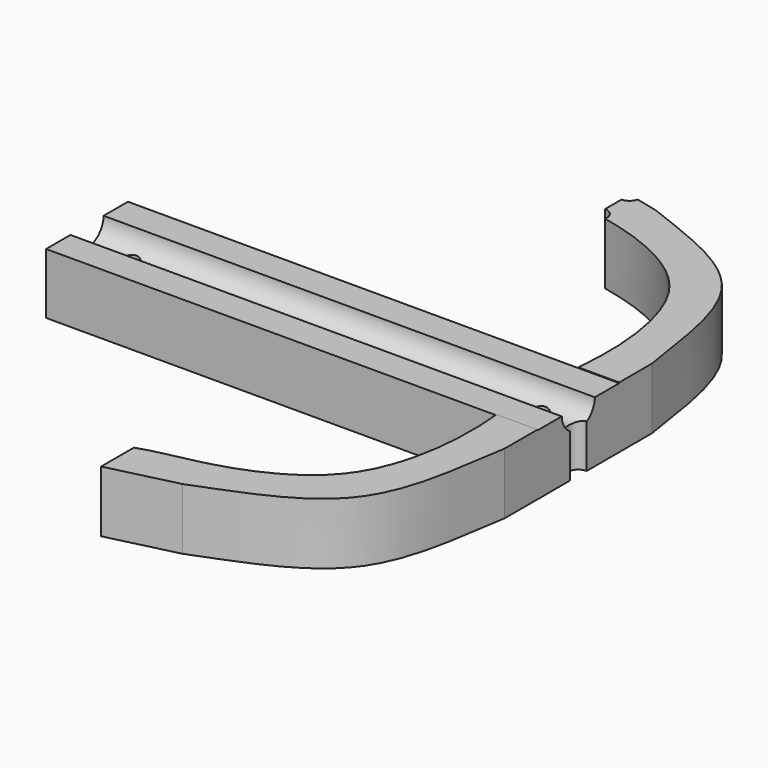
from build123d import *

# Parameters (mm, degrees)
F1_DEPTH = 304.8
F3_DEPTH = 37.6682579939
F5_D     = 12.7
F7_DEPTH = 38.1


with BuildPart() as f1:
    # F0 (on Right) → F1 (new body)
    with BuildSketch(Plane.YZ):
        with BuildLine():
            Line((-31.75, 37.6672579939), (-31.75, 0))
            Line((-31.75, 0), (31.75, 0))
            Line((31.75, 0), (31.75, 37.6672579939))
            Line((31.75, 37.6672579939), (12.8542501479, 37.6672579939))
            ThreePointArc((12.8542501479, 37.6672579939), (0, 25.2384677231), (-12.8542501479, 37.6672579939))
            Line((-12.8542501479, 37.6672579939), (-31.75, 37.6672579939))
        make_face()
    extrude(amount=F1_DEPTH)

    # F2 (on face) → F3 (cut, through all)
    with BuildSketch(Plane(origin=(0, 0, 0), x_dir=(1, 0, 0), z_dir=(0, 0, -1))):
        with BuildLine():
            Line((304.8, -6.5), (304.8, 6.5))
            ThreePointArc((304.8, 6.5), (298.3, 0), (304.8, -6.5))
        make_face()
    extrude(amount=-F3_DEPTH, mode=Mode.SUBTRACT)

    # F5 (through all)
    with Locations(Plane(origin=(0, 0, 0), x_dir=(1, 0, 0), z_dir=(0, 0, -1))):
        with Locations((25.4, 0), (279.4, 0)):
            Hole(F5_D / 2)

    # F6 (on face) → F7 (join)
    with BuildSketch(Plane(origin=(0, 0, 0), x_dir=(1, 0, 0), z_dir=(0, 0, -1))):
        with BuildLine():
            Line((304.8, -57.15), (304.8, -31.75))
            Line((304.8, -31.75), (279.4, -31.75))
            add(Edge.make_bspline(
                [(279.4, -31.75), (280.6196464062, -44.9519572545), (281.6562352616, -72.7591128188), (267.4659060578, -133.5460316096), (219.311230836, -155.2848931595), (196.3723528224, -160.6784621447), (192.0268553365, -161.6276637507)],
                knots=[0, 0, 0, 0, 0.2247705993, 0.4917972226, 0.7698647046, 0.837979119, 0.837979119, 0.837979119, 0.837979119], degree=3))
            ThreePointArc((192.0268553365, -161.6276637507), (190.7858628977, -166.9955827691), (185.8158122141, -169.3732314025))
            Line((185.8158122141, -169.3732314025), (185.8158122141, -182.2608020978))
            ThreePointArc((185.8158122141, -182.2608020978), (189.717508907, -183.6558096923), (191.912954164, -187.1699672577))
            add(Edge.make_bspline(
                [(206.1138840691, -183.6896836758), (201.2935156589, -184.8995347049), (196.5975482437, -186.0418094447), (191.912954164, -187.1699672577)],
                knots=[0, 0, 0, 0, 14.7614757351, 14.7614757351, 14.7614757351, 14.7614757351], degree=3))
            add(Edge.make_bspline(
                [(304.8, -57.15), (299.6183479782, -88.5960237562), (294.5771500768, -152.4240335574), (233.688003705, -172.914172303), (206.1138840691, -183.6896836758)],
                knots=[0, 0, 0, 0, 0.5045633421, 1, 1, 1, 1], degree=3))
        make_face()
        with BuildLine():
            Line((279.4, 31.75), (304.8, 31.75))
            Line((304.8, 31.75), (304.8, 57.15))
            add(Edge.make_bspline(
                [(304.8, 57.15), (299.6183479782, 88.5960237562), (294.5771500768, 152.4240335574), (233.688003705, 172.914172303), (206.1138840691, 183.6896836758)],
                knots=[0, 0, 0, 0, 0.5045633421, 1, 1, 1, 1], degree=3))
            add(Edge.make_bspline(
                [(206.1138840691, 183.6896836758), (191.930532214, 187.2495242062), (178.8241938518, 190.2243165594), (163.9156103992, 193.9758807421)],
                knots=[0, 0, 0, 0, 43.433859497, 43.433859497, 43.433859497, 43.433859497], degree=3))
            Line((163.9156103992, 193.9758807421), (163.9156103992, 168.5758807421))
            add(Edge.make_bspline(
                [(279.4, 31.75), (280.6196464062, 44.9519572545), (281.6562352616, 72.7591128188), (267.4659060578, 133.5460316096), (206.5878868967, 161.0286970804), (175.8306996904, 164.2202895611), (163.9156103992, 168.5758807421)],
                knots=[0, 0, 0, 0, 0.2247705993, 0.4917972226, 0.7698647046, 1, 1, 1, 1], degree=3))
        make_face()
    extrude(amount=-F7_DEPTH)


solid = f1.part
